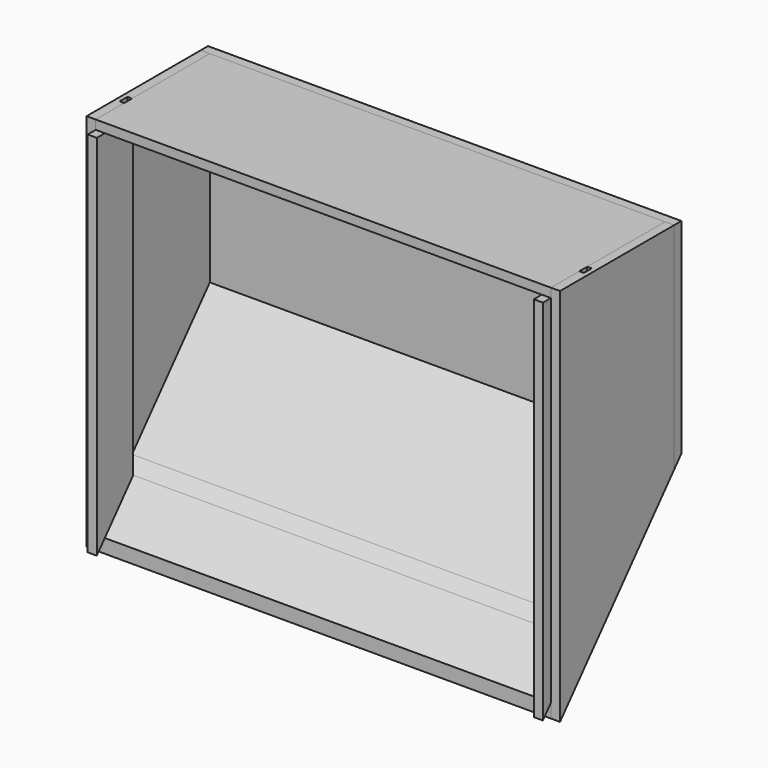
from build123d import *

# Parameters (mm, degrees)
F2_W          = 64.1
F2_H          = 6
F2_W_2        = 23.4
F2_W_3        = 6.5
F3_DEPTH      = 6
F4_DEPTH      = 3
F2_W_4        = 6.6
F5_DEPTH      = 6
F7_DEPTH      = 306
F7_DEPTH_BACK = 6
F8_DEPTH      = 300


with BuildPart() as f3:
    # F2 (on plane+point) → F3 (new body)
    with BuildSketch(Plane.YZ.offset(-150)):
        with Locations((68.55, 153)):
            Rectangle(F2_W, F2_H)
        Polygon((100.6, 150), (36.5, 150), (36.5, -50.4584661039), (100.6, 23.280148799), align=None)
        Polygon((100.6, 23.280148799), (36.5, -50.4584661039), (36.5, -59.6039846241), (100.6, 14.1346302788), align=None)
        with Locations((18.3, 153)):
            Rectangle(F2_W_2, F2_H)
        Polygon((36.5, 150), (30, 150), (30, 144), (30, -48.7903422306), (30, -57.9358607508), (36.5, -50.4584661039), align=None)
        with Locations((33.25, 153)):
            Rectangle(F2_W_3, F2_H)
        Polygon((36.5, -59.6039846241), (36.5, -50.4584661039), (30, -57.9358607508), (30, -67.081379271), align=None)
        Polygon((30, -57.9358607508), (6.6, -84.8544814798), (6.6, -92.4469129674), (6.6, -94), (30, -67.081379271), align=None)
        Polygon((30, 144), (6.6, 144), (6.6, -75.7089629595), (30, -48.7903422306), align=None)
        with Locations((18.3, 147)):
            Rectangle(F2_W_2, F2_H)
        Polygon((30, -48.7903422306), (6.6, -75.7089629595), (6.6, -84.8544814798), (30, -57.9358607508), align=None)
    extrude(amount=-F3_DEPTH)

    # F2 (on plane+point) → F4 (cut)
    with BuildSketch(Plane.YZ.offset(-150)):
        Polygon((36.5, 150), (30, 150), (30, 144), (30, -48.7903422306), (30, -57.9358607508), (36.5, -50.4584661039), align=None)
        with Locations((33.25, 153)):
            Rectangle(F2_W_3, F2_H)
        Polygon((36.5, -59.6039846241), (36.5, -50.4584661039), (30, -57.9358607508), (30, -67.081379271), align=None)
    extrude(amount=-F4_DEPTH, mode=Mode.SUBTRACT)


with BuildPart() as f5:
    # F2 (on plane+point) → F5 (new body)
    with BuildSketch(Plane.YZ.offset(-150)):
        Polygon((6.6, 144), (0, 144), (0, -83.3013944472), (6.6, -75.7089629595), align=None)
        with Locations((3.3, 147)):
            Rectangle(F2_W_4, F2_H)
        with Locations((18.3, 147)):
            Rectangle(F2_W_2, F2_H)
        Polygon((30, 144), (6.6, 144), (6.6, -75.7089629595), (30, -48.7903422306), align=None)
        Polygon((30, -48.7903422306), (6.6, -75.7089629595), (6.6, -84.8544814798), (30, -57.9358607508), align=None)
        Polygon((6.6, -75.7089629595), (0, -83.3013944472), (0, -92.4469129674), (6.6, -84.8544814798), align=None)
    extrude(amount=F5_DEPTH)


with BuildPart() as f6_1:
    # F6: instance of F3
    add(f3.part.mirror(Plane.YZ))


with BuildPart() as f6_2:
    # F6: instance of F5
    add(f5.part.mirror(Plane.YZ))


with BuildPart() as f7:
    # F2 (on plane+point) → F7 (new body, two sides)
    with BuildSketch(Plane.YZ.offset(-150)) as f7_sk:
        Polygon((100.6, 156), (100.6, 150), (100.6, 23.280148799), (100.6, 14.1346302788), (106.6, 21.0368407221), (106.6, 156), align=None)
    extrude(amount=F7_DEPTH)
    extrude(f7_sk.sketch, amount=-F7_DEPTH_BACK)


with BuildPart() as f8:
    # F2 (on plane+point) → F8 (new body, through all)
    with BuildSketch(Plane.YZ.offset(-150)):
        Polygon((100.6, 23.280148799), (36.5, -50.4584661039), (36.5, -59.6039846241), (100.6, 14.1346302788), align=None)
        Polygon((36.5, -59.6039846241), (36.5, -50.4584661039), (30, -57.9358607508), (30, -67.081379271), align=None)
        Polygon((30, -57.9358607508), (6.6, -84.8544814798), (6.6, -92.4469129674), (6.6, -94), (30, -67.081379271), align=None)
    extrude(amount=F8_DEPTH)


with BuildPart() as f8b:
    # F2 (on plane+point) → F8, piece 2 (new body, through all)
    with BuildSketch(Plane.YZ.offset(-150)):
        with Locations((18.3, 153)):
            Rectangle(F2_W_2, F2_H)
        with Locations((33.25, 153)):
            Rectangle(F2_W_3, F2_H)
        with Locations((68.55, 153)):
            Rectangle(F2_W, F2_H)
    extrude(amount=F8_DEPTH)


solid = Compound([f3.part, f5.part, f6_1.part, f6_2.part, f7.part, f8.part, f8b.part])
